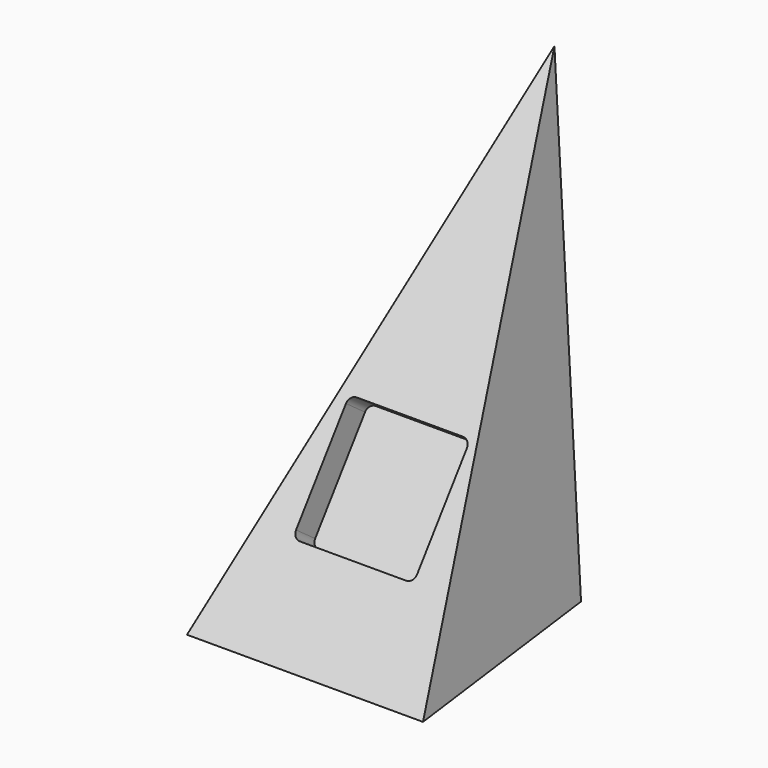
from build123d import *

# Parameters (mm, degrees)
F1_DEPTH  = 101.6
F3_DEPTH  = 108.6532940183
F4_W      = 52.07
F4_H      = 52.07
F5_DEPTH  = 12.7
F6_R      = 3.175
F7_R      = 3.175
F10_W     = 114.2207605299
F10_H     = 103.8881577551
F11_DEPTH = 25.4


with BuildPart() as f1:
    # F0 (on Right) → F1 (new body)
    with BuildSketch(Plane.YZ):
        Polygon((95.3280799156, 185.0426944046), (-38.8999396909, 0), (62.7000603091, 0), align=None)
    extrude(amount=F1_DEPTH)

    # F2 (on face) → F3 (cut, through all)
    with BuildSketch(Plane(origin=(0, -25.4882702356, 18.4889225048), x_dir=(1, 0, 0), z_dir=(0, -0.8094606054, 0.587174189))):
        Polygon((0, 205.7589594597), (0, -22.8410405403), (50.8, 205.7589594597), align=None)
        Polygon((101.6, 205.7589594597), (50.8, 205.7589594597), (101.6, -22.8410405403), align=None)
    extrude(amount=-F3_DEPTH, mode=Mode.SUBTRACT)

    # F4 (on face) → F5 (cut)
    with BuildSketch(Plane(origin=(0, -25.4882702356, 18.4889225048), x_dir=(1, 0, 0), z_dir=(0, -0.8094606054, 0.587174189))):
        with Locations((51.483128581, 45.8012033367)):
            Rectangle(F4_W, F4_H)
    extrude(amount=-F5_DEPTH, mode=Mode.SUBTRACT)

    # F6
    f6_edges = [f1.edges().sort_by_distance(p)[0] for p in [
        (25.448129, 21.832169, 72.908943),
    ]]
    fillet(f6_edges, radius=F6_R)

    # F7
    f7_edges = [f1.edges().sort_by_distance(p)[0] for p in [
        (25.448129, -8.741991, 30.760329),
        (77.518129, -8.741991, 30.760329),
        (77.518129, 21.832169, 72.908943),
    ]]
    fillet(f7_edges, radius=F7_R)

    # F10 (on face) → F11 (cut)
    with BuildSketch(Plane(origin=(-4.6941337345, 4.3288858466, -4.5218095202), x_dir=(-0.3984565906, -0.8330111765, -0.3838290314), z_dir=(-0.5999369127, 0.5532561612, -0.5779129008))):
        with Locations((-60.2949896129, -21.5842779726)):
            Rectangle(F10_W, F10_H)
    extrude(amount=F11_DEPTH, mode=Mode.SUBTRACT)


solid = f1.part
